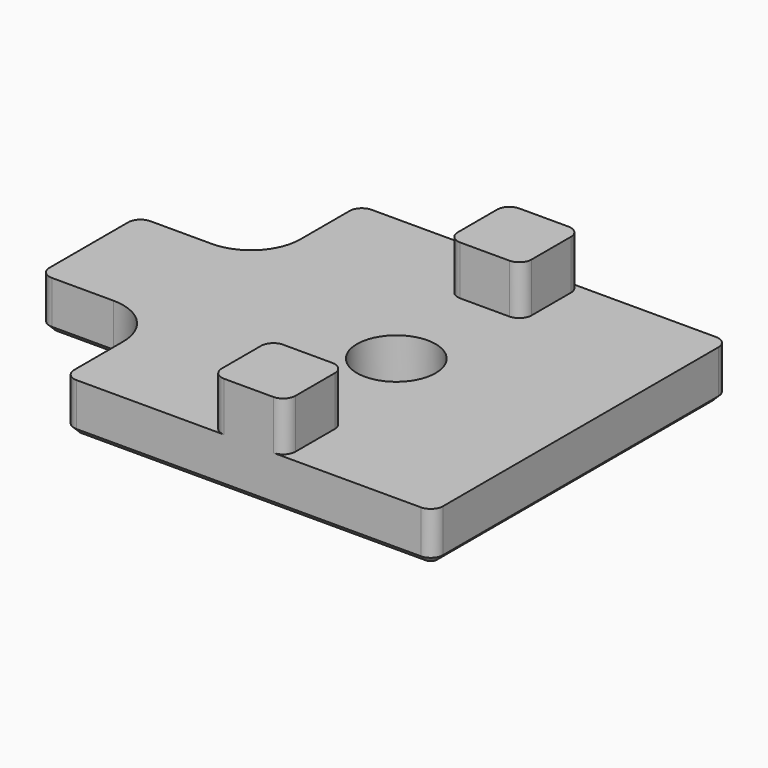
from build123d import *

# Parameters (mm, degrees)
F0_R     = 1.6
F0_W     = 5
F0_H     = 5
F0_W_2   = 3
F0_H_2   = 3
F1_DEPTH = 2
F2_DEPTH = 2
F3_R     = 2
F4_R     = 0.5
F5_SIZE  = 0.25


with BuildPart() as f1:
    # F0 (on Top) → F1 (new body)
    with BuildSketch(Plane.XY):
        Polygon((7.5, -7.5), (7.5, 7.5), (1.5, 7.5), (1.5, 4.5), (-1.5, 4.5), (-1.5, 7.5), (-7.5, 7.5), (-7.5, 2.5), (-7.5, -2.5), (-7.5, -7.5), (-1.5, -7.5), (-1.5, -4.5), (1.5, -4.5), (1.5, -7.5), align=None)
        Circle(F0_R, mode=Mode.SUBTRACT)
        with Locations((-10, 0)):
            Rectangle(F0_W, F0_H)
        with Locations((0, 6)):
            Rectangle(F0_W_2, F0_H_2)
        with Locations((0, -6)):
            Rectangle(F0_W_2, F0_H_2)
    extrude(amount=-F1_DEPTH)

    # F0 (on Top) → F2 (join)
    with BuildSketch(Plane.XY):
        with Locations((0, 6)):
            Rectangle(F0_W_2, F0_H_2)
        with Locations((0, -6)):
            Rectangle(F0_W_2, F0_H_2)
    extrude(amount=F2_DEPTH)

    # F3
    f3_edges = [f1.edges().sort_by_distance(p)[0] for p in [
        (-7.5, 2.5, -1),
        (-7.5, -2.5, -1),
    ]]
    fillet(f3_edges, radius=F3_R)

    # F4
    f4_edges = [f1.edges().sort_by_distance(p)[0] for p in [
        (-12.5, 2.5, -1),
        (-12.5, -2.5, -1),
        (-7.5, -7.5, -1),
        (-7.5, 7.5, -1),
        (7.5, 7.5, -1),
        (7.5, -7.5, -1),
        (1.5, 7.5, 1),
        (1.5, 4.5, 1),
        (-1.5, 7.5, 1),
        (-1.5, 4.5, 1),
        (-1.5, -4.5, 1),
        (1.5, -4.5, 1),
        (-1.5, -7.5, 1),
        (1.5, -7.5, 1),
    ]]
    fillet(f4_edges, radius=F4_R)

    # F5
    f5_edges = [f1.edges().sort_by_distance(p)[0] for p in [
        (-7.5, 5.75, -2),
        (-7.353553, 7.353553, -2),
        (-8.085786, 3.085786, -2),
        (0, 7.5, -2),
        (-10.75, 2.5, -2),
        (7.353553, 7.353553, -2),
        (-12.353553, 2.353553, -2),
        (7.5, 0, -2),
        (-12.5, 0, -2),
        (7.353553, -7.353553, -2),
        (-12.353553, -2.353553, -2),
        (0, -7.5, -2),
        (-10.75, -2.5, -2),
        (-7.353553, -7.353553, -2),
        (-8.085786, -3.085786, -2),
        (-7.5, -5.75, -2),
        (-1.6, 0, -2),
    ]]
    chamfer(f5_edges, length=F5_SIZE)


solid = f1.part
